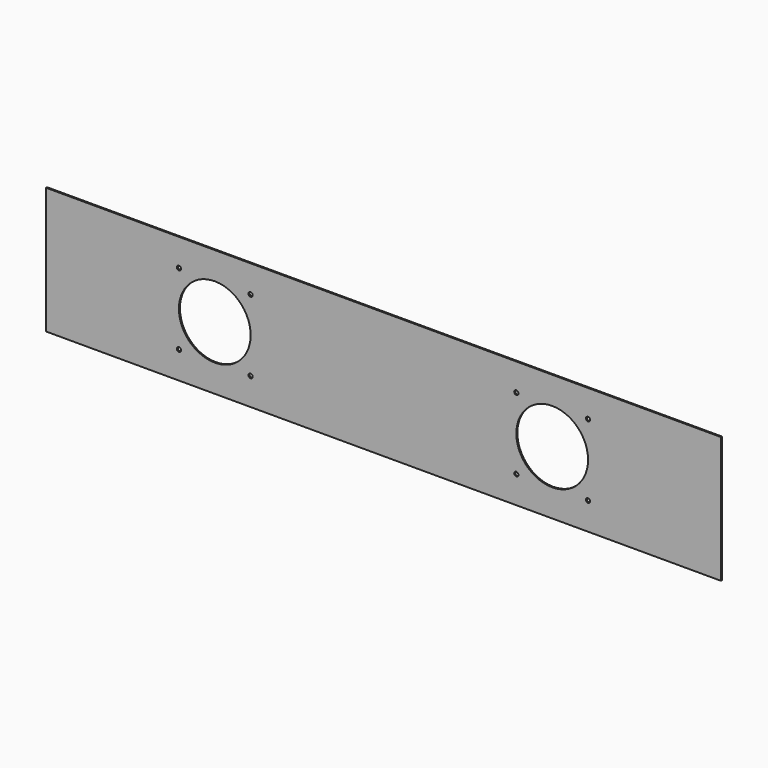
from build123d import *

# Parameters (mm, degrees)
F0_W     = 1600
F0_H     = 300
F1_DEPTH = 1.5


with BuildPart() as f1:
    # F0 (on Front) → F1 (new body, symmetric)
    with BuildSketch(Plane.XZ):
        Rectangle(F0_W, F0_H)
        with BuildLine():
            Line((-315, 80), (-315, 0))
            Line((-315, 0), (-315, -80))
            ThreePointArc((-315, -80), (-311.4644660941, -81.4644660941), (-310, -85))
            ThreePointArc((-310, -85), (-315, -90), (-320, -85))
            Line((-320, -85), (-400, -85))
            Line((-400, -85), (-480, -85))
            ThreePointArc((-480, -85), (-488.5355339059, -88.5355339059), (-485, -80))
            Line((-485, -80), (-485, -5.63e-07))
            Line((-485, -5.63e-07), (-485, 80))
            ThreePointArc((-485, 80), (-488.5355339059, 88.5355339059), (-480, 85))
            Line((-480, 85), (-400, 85))
            Line((-400, 85), (-320, 85))
            ThreePointArc((-320, 85), (-315, 90), (-310, 85))
            ThreePointArc((-310, 85), (-311.4644660941, 81.4644660941), (-315, 80))
        make_face(mode=Mode.SUBTRACT)
        with BuildLine():
            Line((485, 80), (485, 0))
            Line((485, 0), (485, -80))
            ThreePointArc((485, -80), (488.5355339059, -81.4644660941), (490, -85))
            ThreePointArc((490, -85), (485, -90), (480, -85))
            Line((480, -85), (400, -85))
            Line((400, -85), (320, -85))
            ThreePointArc((320, -85), (311.4644660941, -88.5355339059), (315, -80))
            Line((315, -80), (315, -5.63e-07))
            Line((315, -5.63e-07), (315, 80))
            ThreePointArc((315, 80), (311.4644660941, 88.5355339059), (320, 85))
            Line((320, 85), (400, 85))
            Line((400, 85), (480, 85))
            ThreePointArc((480, 85), (485, 90), (490, 85))
            ThreePointArc((490, 85), (488.5355339059, 81.4644660941), (485, 80))
        make_face(mode=Mode.SUBTRACT)
        with BuildLine():
            ThreePointArc((-485, -5.63e-07), (-460.1040765999, 60.1040762018), (-400, 85))
            Line((-400, 85), (-480, 85))
            ThreePointArc((-480, 85), (-481.4644660941, 81.4644660941), (-485, 80))
            Line((-485, 80), (-485, -5.63e-07))
        make_face()
        with BuildLine():
            ThreePointArc((-400, 85), (-339.8959235991, 60.1040764009), (-315, 0))
            Line((-315, 0), (-315, 80))
            ThreePointArc((-315, 80), (-318.5355339059, 81.4644660941), (-320, 85))
            Line((-320, 85), (-400, 85))
        make_face()
        with BuildLine():
            Line((-480, -85), (-400, -85))
            ThreePointArc((-400, -85), (-460.1040762018, -60.1040765999), (-485, -5.63e-07))
            Line((-485, -5.63e-07), (-485, -80))
            ThreePointArc((-485, -80), (-481.4644660941, -81.4644660941), (-480, -85))
        make_face()
        with BuildLine():
            Line((-315, -80), (-315, 0))
            ThreePointArc((-315, 0), (-339.8959235991, -60.1040764009), (-400, -85))
            Line((-400, -85), (-320, -85))
            ThreePointArc((-320, -85), (-318.5355339059, -81.4644660941), (-315, -80))
        make_face()
        with BuildLine():
            ThreePointArc((315, -5.63e-07), (339.8959234001, 60.1040762018), (400, 85))
            Line((400, 85), (320, 85))
            ThreePointArc((320, 85), (318.5355339059, 81.4644660941), (315, 80))
            Line((315, 80), (315, -5.63e-07))
        make_face()
        with BuildLine():
            ThreePointArc((400, 85), (460.1040764009, 60.1040764009), (485, 0))
            Line((485, 0), (485, 80))
            ThreePointArc((485, 80), (481.4644660941, 81.4644660941), (480, 85))
            Line((480, 85), (400, 85))
        make_face()
        with BuildLine():
            Line((320, -85), (400, -85))
            ThreePointArc((400, -85), (339.8959237982, -60.1040765999), (315, -5.63e-07))
            Line((315, -5.63e-07), (315, -80))
            ThreePointArc((315, -80), (318.5355339059, -81.4644660941), (320, -85))
        make_face()
        with BuildLine():
            Line((485, -80), (485, 0))
            ThreePointArc((485, 0), (460.1040764009, -60.1040764009), (400, -85))
            Line((400, -85), (480, -85))
            ThreePointArc((480, -85), (481.4644660941, -81.4644660941), (485, -80))
        make_face()
    extrude(amount=F1_DEPTH, both=True)


solid = f1.part
